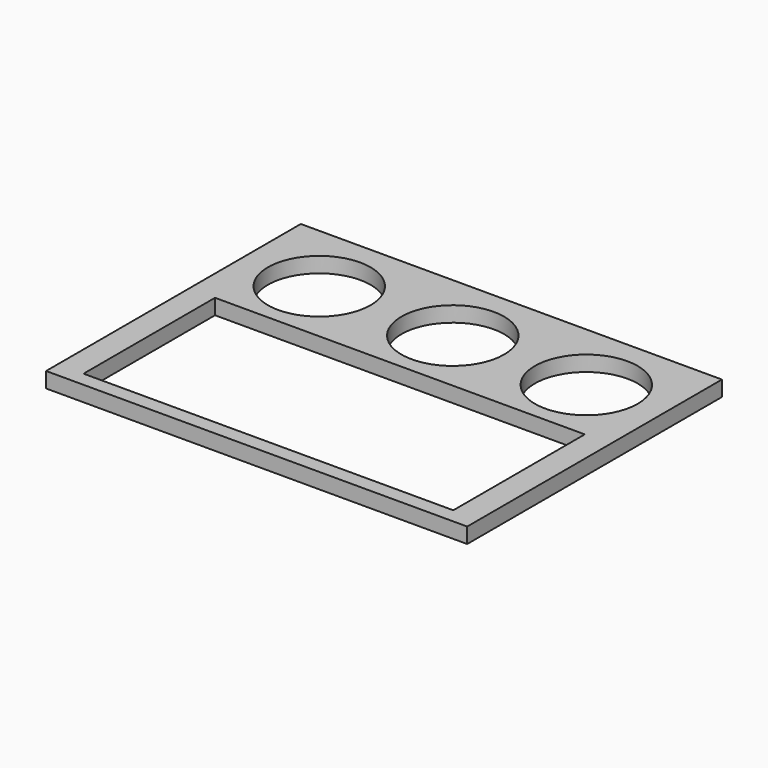
from build123d import *

# Parameters (mm, degrees)
F0_W     = 260.35
F0_H     = 196.85
F0_W_2   = 228.6
F0_H_2   = 101.6
F0_R     = 31.75
F1_DEPTH = 9.525


with BuildPart() as f1:
    # F0 (on Top) → F1 (new body)
    with BuildSketch(Plane.XY):
        with Locations((130.175, -98.425)):
            Rectangle(F0_W, F0_H)
        with Locations((130.175, -136.9441)):
            Rectangle(F0_W_2, F0_H_2, mode=Mode.SUBTRACT)
        with Locations((47.625, -45.2882)):
            Circle(F0_R, mode=Mode.SUBTRACT)
        with Locations((130.175, -45.2882)):
            Circle(F0_R, mode=Mode.SUBTRACT)
        with Locations((212.725, -45.2882)):
            Circle(F0_R, mode=Mode.SUBTRACT)
    extrude(amount=F1_DEPTH)


solid = f1.part
